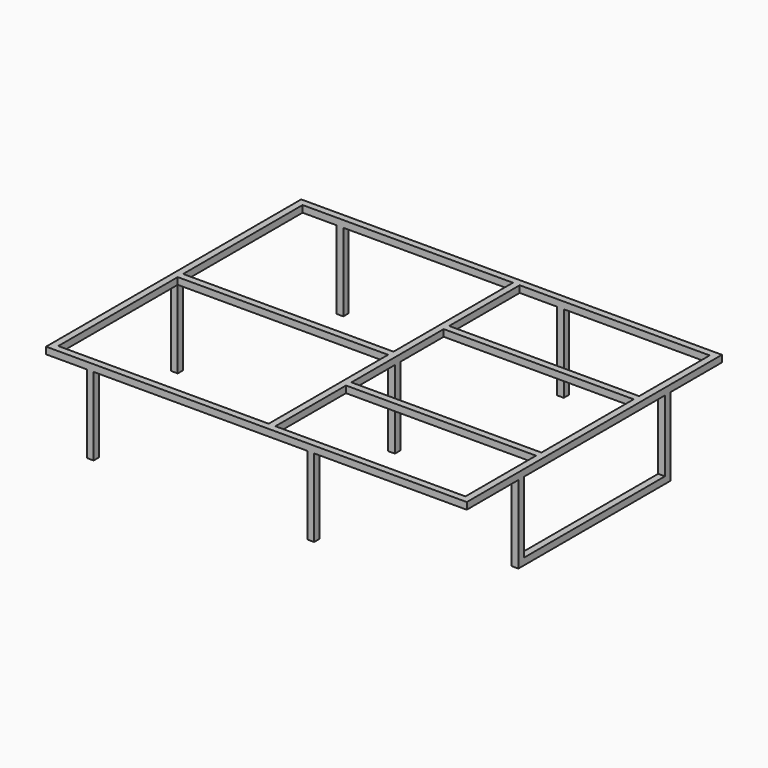
from build123d import *

# Parameters (mm, degrees)
F0_W     = 1574.8
F0_H     = 1193.8
F1_DEPTH = 25.4
F2_W     = 787.4
F2_H     = 558.8
F2_W_2   = 711.2
F2_H_2   = 330.2
F2_H_3   = 431.8
F3_DEPTH = 25.401
F4_W     = 25.4
F4_H     = 25.4
F4_H_2   = 711.2
F5_DEPTH = 292.1
F6_W     = 660.4
F6_H     = 266.7
F7_DEPTH = 50.8


with BuildPart() as f1:
    # F0 (on Top) → F1 (new body)
    with BuildSketch(Plane.XY):
        Rectangle(F0_W, F0_H)
    extrude(amount=F1_DEPTH)

    # F2 (on face) → F3 (cut, through all)
    with BuildSketch(Plane(origin=(0, 0, 0), x_dir=(1, 0, 0), z_dir=(0, 0, -1))):
        with Locations((-368.3, -292.1)):
            Rectangle(F2_W, F2_H)
        with Locations((-368.3, 292.1)):
            Rectangle(F2_W, F2_H)
        with Locations((406.4, -406.4)):
            Rectangle(F2_W_2, F2_H_2)
        with Locations((406.4, 0)):
            Rectangle(F2_W_2, F2_H_3)
        with Locations((406.4, 406.4)):
            Rectangle(F2_W_2, F2_H_2)
    extrude(amount=-F3_DEPTH, mode=Mode.SUBTRACT)

    # F4 (on face) → F5 (join)
    with BuildSketch(Plane(origin=(0, 0, 0), x_dir=(1, 0, 0), z_dir=(0, 0, -1))):
        with Locations((-622.3, 584.2)):
            Rectangle(F4_W, F4_H)
        with Locations((-622.3, -584.2)):
            Rectangle(F4_W, F4_H)
        with Locations((-774.7, 0)):
            Rectangle(F4_W, F4_H)
        with Locations((38.1, 0)):
            Rectangle(F4_W, F4_H)
        with Locations((774.7, 0)):
            Rectangle(F4_W, F4_H_2)
        with Locations((203.2, 584.2)):
            Rectangle(F4_W, F4_H)
        with Locations((203.2, -584.2)):
            Rectangle(F4_W, F4_H)
    extrude(amount=F5_DEPTH)

    # F6 (on face) → F7 (cut)
    with BuildSketch(Plane.YZ.offset(787.4)):
        with Locations((0, -133.35)):
            Rectangle(F6_W, F6_H)
    extrude(amount=-F7_DEPTH, mode=Mode.SUBTRACT)


solid = f1.part
